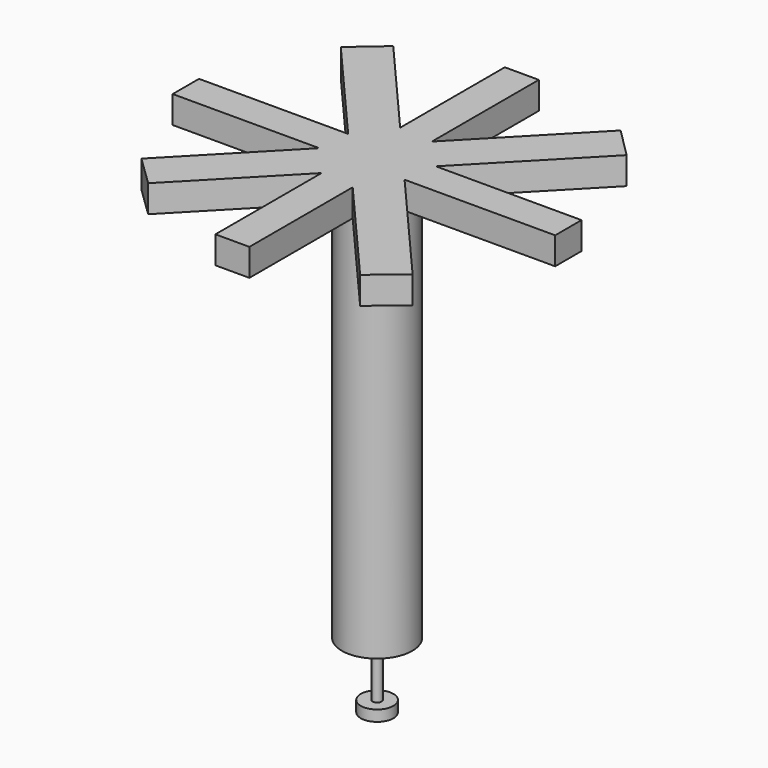
from build123d import *

# Parameters (mm, degrees)
F0_R     = 6.448973
F1_DEPTH = 75
F3_DEPTH = 2.5
F4_R     = 0.829457
F5_DEPTH = 10
F6_R     = 2.985261
F7_DEPTH = 2


with BuildPart() as f1:
    # F0 (on Top) → F1 (new body)
    with BuildSketch(Plane.XY):
        Circle(F0_R)
    extrude(amount=F1_DEPTH)

    # F2 (on face) → F3 (join, symmetric)
    with BuildSketch(Plane.XY.offset(75)):
        Polygon((7.441463, -3.014468), (35.017251, -3.014468), (35.017251, 3.014468), (8.35262, 3.014468), (27.479934, 22.758793), (22.040198, 28.188686), (3.112997, 8.650931), (3.112997, 33.119855), (-3.112997, 33.119855), (-3.112997, 9.167791), (-19.670232, 28.278624), (-25.342984, 23.363868), (-7.712681, 3.014468), (-35.017251, 3.014468), (-35.017251, -3.014468), (-8.187858, -3.014468), (-26.021978, -21.423882), (-20.502207, -26.77116), (-3.112997, -8.821007), (-3.112997, -33.119855), (3.112997, -33.119855), (3.112997, -9.480839), (20.888046, -29.997309), (26.634359, -25.167458), align=None)
    extrude(amount=F3_DEPTH, both=True)

    # F4 (on face) → F5 (join)
    with BuildSketch(Plane(origin=(0, 0, 0), x_dir=(1, 0, 0), z_dir=(0, 0, -1))):
        Circle(F4_R)
    extrude(amount=F5_DEPTH)

    # F6 (on face) → F7 (join)
    with BuildSketch(Plane(origin=(0, 0, -10), x_dir=(1, 0, 0), z_dir=(0, 0, -1))):
        Circle(F6_R)
    extrude(amount=F7_DEPTH)


solid = f1.part
